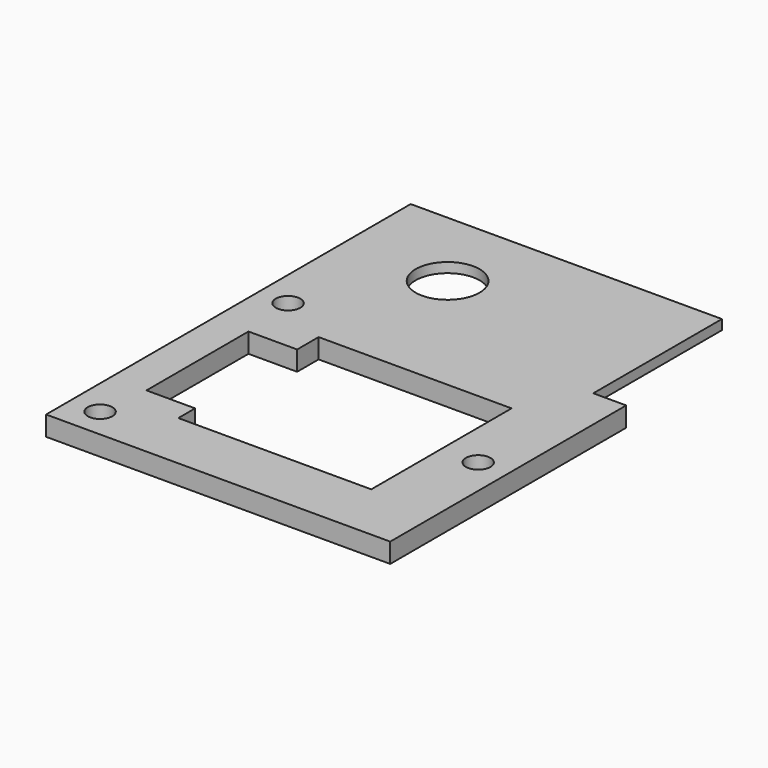
from build123d import *

# Parameters (mm, degrees)
F0_W     = 35
F0_H     = 30
F0_R     = 1.25
F1_DEPTH = 2
F2_W     = 31.655683
F2_H     = 16.351057
F2_R     = 3.25
F3_DEPTH = 1


with BuildPart() as f1:
    # F0 (on Top) → F1 (new body)
    with BuildSketch(Plane.XY):
        Rectangle(F0_W, F0_H)
        with Locations((-14.45, -11.95)):
            Circle(F0_R, mode=Mode.SUBTRACT)
        Polygon((-8.916158, 8.917894), (8.916158, 8.917894), (10.707928, 8.917894), (10.707925, -8.917894), (8.916158, -8.917894), (-8.916158, -8.917894), (-8.916158, -6.781416), (-13.864904, -6.781416), (-13.864904, 6.187579), (-8.916158, 6.187579), align=None, mode=Mode.SUBTRACT)
        with Locations((-14.45, 11.95)):
            Circle(F0_R, mode=Mode.SUBTRACT)
        with Locations((14.45, 0)):
            Circle(F0_R, mode=Mode.SUBTRACT)
    extrude(amount=F1_DEPTH)

    # F2 (on face) → F3 (join)
    with BuildSketch(Plane.XY.offset(2)):
        with Locations((-1.672159, 23.175528)):
            Rectangle(F2_W, F2_H)
        with Locations((-6.952613, 22.861004)):
            Circle(F2_R, mode=Mode.SUBTRACT)
    extrude(amount=-F3_DEPTH)


solid = f1.part
